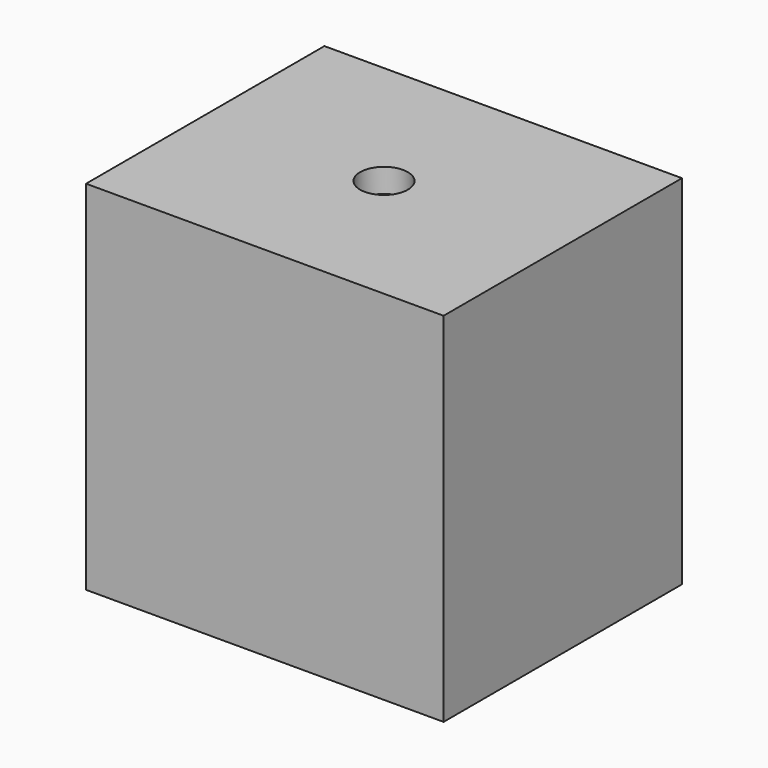
from build123d import *

# Parameters (mm, degrees)
F0_W     = 15
F0_H     = 12.5
F1_DEPTH = 15
F2_T     = -1
F4_D     = 2


with BuildPart() as f1:
    # F0 (on Top) → F1 (new body)
    with BuildSketch(Plane.XY):
        Rectangle(F0_W, F0_H)
    extrude(amount=F1_DEPTH)

    # F2
    f2_openings = [f1.faces().sort_by_distance(p)[0] for p in [
        (0, 0, 0),
    ]]
    offset(amount=F2_T, openings=f2_openings)

    # F4 (through all)
    with Locations(Plane.XY.offset(15)):
        with Locations((0, 0)):
            Hole(F4_D / 2)


solid = f1.part
